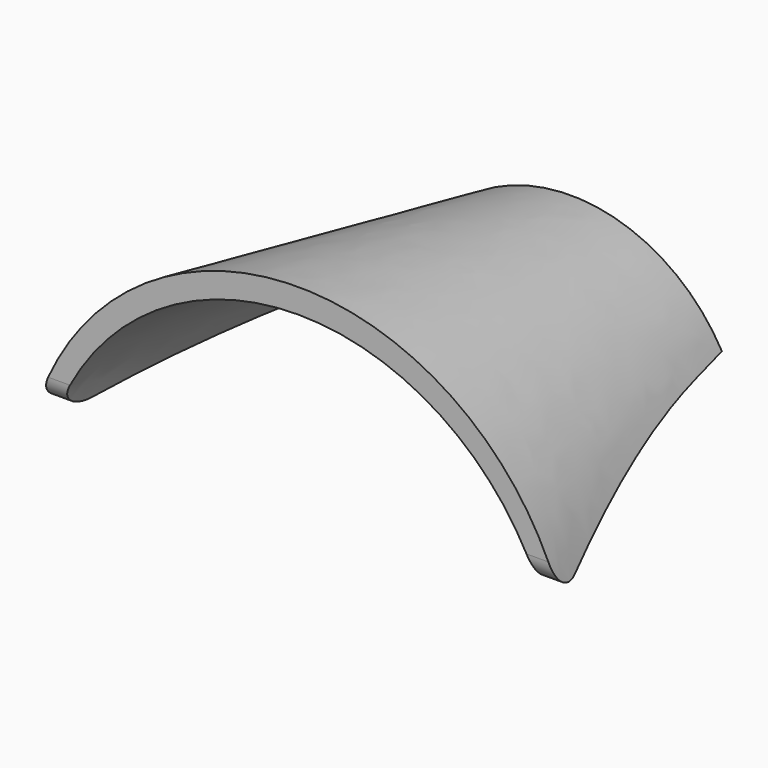
from build123d import *

# Parameters (mm, degrees)
F6_DEPTH = 60
F7_R     = 5.08


with BuildPart() as f4:
    # F1 (on offset) → F4 section 0
    with BuildSketch(Plane.XZ.offset(35)):
        with BuildLine():
            Line((-54, 0), (-50, 0))
            ThreePointArc((-50, 0), (0, 35), (50, 0))
            Line((50, 0), (54, 0))
            ThreePointArc((54, 0), (0, 40), (-54, 0))
        make_face()
    # F3 (on offset) → F4 section 1
    with BuildSketch(Plane.XZ.offset(-35)):
        with BuildLine():
            ThreePointArc((-30.6, 0), (0, 24), (30.6, 0))
            Line((30.6, 0), (34.8134934902, 0))
            ThreePointArc((34.8134934902, 0), (0, 28.1062878531), (-34.8134934902, 0))
            Line((-34.8134934902, 0), (-30.6, 0))
        make_face()
    loft()

    # F5 (on Right) → F6 (cut, symmetric)
    with BuildSketch(Plane.YZ):
        with BuildLine():
            Line((-35, 0), (35, 0))
            Line((35, 0), (35, 10))
            Line((35, 10), (25, 10))
            ThreePointArc((25, 10), (-5.4138126515, 7.4828759089), (-35, 0))
        make_face()
    extrude(amount=F6_DEPTH, both=True, mode=Mode.SUBTRACT)

    # F7
    f7_edges = [f4.edges().sort_by_distance(p)[0] for p in [
        (52, -35, 0),
        (-52, -35, 0),
    ]]
    fillet(f7_edges, radius=F7_R)


solid = f4.part
